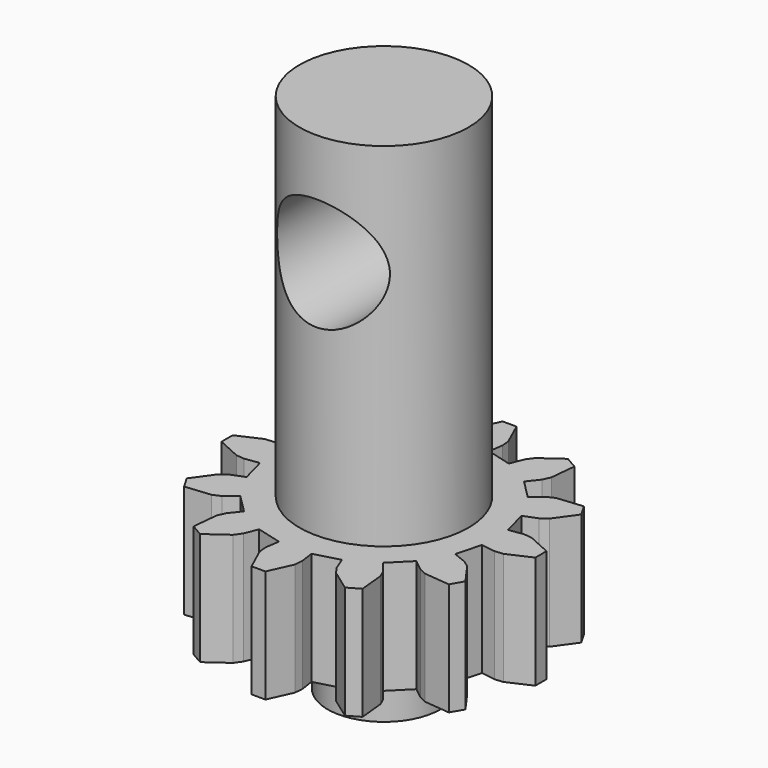
from build123d import *

# Parameters (mm, degrees)
F1_DEPTH = 8
F2_R     = 6
F3_DEPTH = 25
F4_R     = 4
F5_DEPTH = 4
F6_R     = 4
F7_DEPTH = 6


with BuildPart() as f1:
    # F0 (on Top) → F1 (new body)
    with BuildSketch(Plane.XY):
        Polygon((8.878189, 1.303729), (7.873311, 1.156166), (7.39657, 2.935387), (8.340604, 3.310035), (8.822399, 3.654358), (9.885736, 5.137187), (9.391802, 5.992704), (7.575968, 5.813244), (7.036875, 5.568157), (6.240405, 4.937924), (4.937924, 6.240405), (5.568157, 7.036876), (5.813244, 7.575967), (5.992704, 9.391803), (5.137187, 9.885737), (3.654357, 8.822399), (3.310035, 8.340604), (2.935388, 7.39657), (1.156166, 7.873311), (1.303728, 8.878189), (1.246434, 9.467602), (0.493934, 11.129891), (-0.493934, 11.129891), (-1.246434, 9.467602), (-1.303728, 8.878189), (-1.156166, 7.873311), (-2.935388, 7.39657), (-3.310035, 8.340604), (-3.654357, 8.822399), (-5.137187, 9.885737), (-5.992704, 9.391803), (-5.813244, 7.575967), (-5.568157, 7.036876), (-4.937924, 6.240405), (-6.240405, 4.937924), (-7.036875, 5.568157), (-7.575968, 5.813244), (-9.391802, 5.992704), (-9.885736, 5.137187), (-8.822399, 3.654358), (-8.340604, 3.310035), (-7.39657, 2.935387), (-7.873311, 1.156166), (-8.878189, 1.303729), (-9.467602, 1.246434), (-11.129891, 0.493934), (-11.129891, -0.493934), (-9.467602, -1.246434), (-8.878189, -1.303729), (-7.873311, -1.156165), (-7.39657, -2.935387), (-8.340604, -3.310035), (-8.822399, -3.654358), (-9.885736, -5.137186), (-9.391802, -5.992704), (-7.575968, -5.813244), (-7.036875, -5.568156), (-6.240405, -4.937924), (-4.937924, -6.240405), (-5.568157, -7.036876), (-5.813244, -7.575967), (-5.992704, -9.391803), (-5.137187, -9.885737), (-3.654357, -8.822399), (-3.310035, -8.340603), (-2.935388, -7.39657), (-1.156166, -7.873311), (-1.303728, -8.878188), (-1.246434, -9.467602), (-0.493934, -11.12989), (0.493934, -11.12989), (1.246434, -9.467602), (1.303728, -8.878188), (1.156166, -7.873311), (2.935388, -7.39657), (3.310035, -8.340603), (3.654357, -8.822399), (5.137187, -9.885737), (5.992704, -9.391803), (5.813244, -7.575967), (5.568157, -7.036876), (4.937924, -6.240405), (6.240405, -4.937924), (7.036875, -5.568156), (7.575968, -5.813244), (9.391802, -5.992704), (9.885736, -5.137186), (8.822399, -3.654358), (8.340604, -3.310035), (7.39657, -2.935387), (7.873311, -1.156165), (8.878189, -1.303729), (9.467602, -1.246434), (11.12989, -0.493934), (11.12989, 0.493934), (9.467602, 1.246434), align=None)
    extrude(amount=F1_DEPTH)

    # F2 (on face) → F3 (join)
    with BuildSketch(Plane.XY.offset(8)):
        Circle(F2_R)
    extrude(amount=F3_DEPTH)

    # F4 (on face) → F5 (join)
    with BuildSketch(Plane(origin=(0, 0, 0), x_dir=(1, 0, 0), z_dir=(0, 0, -1))):
        Circle(F4_R)
    extrude(amount=F5_DEPTH)

    # F6 (on Front) → F7 (cut, symmetric)
    with BuildSketch(Plane.XZ):
        with Locations((0, 25)):
            Circle(F6_R)
    extrude(amount=F7_DEPTH, both=True, mode=Mode.SUBTRACT)


solid = f1.part
